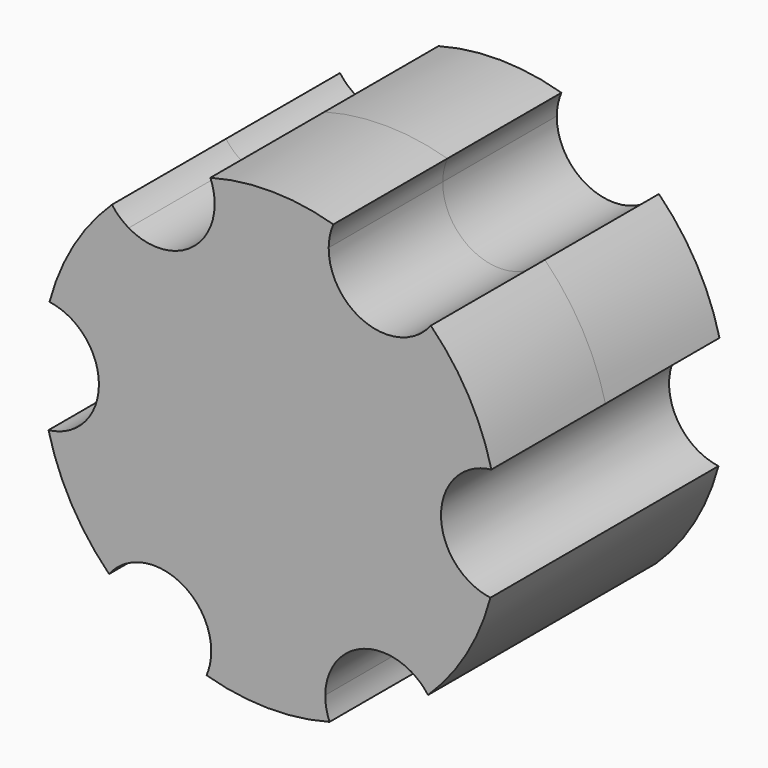
from build123d import *

# Parameters (mm, degrees)
F1_DEPTH = 15.875


with BuildPart() as f1:
    # F0 (on Front) → F1 (new body, symmetric)
    with BuildSketch(Plane.XZ):
        with BuildLine():
            ThreePointArc((24.5505380609, -6.5139144085), (23.3224016368, -6.2216985677), (22.1763423965, -5.6923051493))
            Line((22.1763423965, -5.6923051493), (15.7309476491, -16.6351972053))
            ThreePointArc((15.7309476491, -16.6351972053), (16.7496327839, -17.3808444208), (17.6006812342, -18.313274423))
            ThreePointArc((17.6006812342, -18.313274423), (21.8857841121, -12.8907894947), (24.5505380609, -6.5139144085))
        make_face()
        with BuildLine():
            ThreePointArc((6.6340536746, -24.5183468416), (6.273051804, -23.3086415786), (6.1584903329, -22.051428453))
            Line((6.1584903329, -22.051428453), (-6.5410295522, -21.9409988924))
            ThreePointArc((-6.5410295522, -21.9409988924), (-6.6774364157, -23.1960297053), (-7.0594202598, -24.3992742842))
            ThreePointArc((-7.0594202598, -24.3992742842), (-0.2208591212, -25.3990397702), (6.6340536746, -24.5183468416))
        make_face()
        with BuildLine():
            ThreePointArc((-24.6601014939, -6.0859998612), (-22.1066432333, -12.5082502755), (-17.9164843863, -18.004432433))
            ThreePointArc((-17.9164843863, -18.004432433), (-17.0493498328, -17.0869430109), (-16.0178520636, -16.3591233038))
            Line((-16.0178520636, -16.3591233038), (-22.2719772013, -5.3058016871))
            ThreePointArc((-22.2719772013, -5.3058016871), (-23.4270691996, -5.8151852846), (-24.6601014939, -6.0859998612))
        make_face()
        with BuildLine():
            Line((-22.1763423965, 5.6923051493), (-15.7309476491, 16.6351972053))
            ThreePointArc((-15.7309476491, 16.6351972053), (-16.7496327839, 17.3808444208), (-17.6006812342, 18.313274423))
            ThreePointArc((-17.6006812342, 18.313274423), (-21.8857841121, 12.8907894947), (-24.5505380609, 6.5139144085))
            ThreePointArc((-24.5505380609, 6.5139144085), (-23.3224016368, 6.2216985677), (-22.1763423965, 5.6923051493))
        make_face()
        with BuildLine():
            Line((-6.1584903329, 22.051428453), (6.5410295522, 21.9409988924))
            ThreePointArc((6.5410295522, 21.9409988924), (6.6774364157, 23.1960297053), (7.0594202598, 24.3992742842))
            ThreePointArc((7.0594202598, 24.3992742842), (0.2208591212, 25.3990397702), (-6.6340536746, 24.5183468416))
            ThreePointArc((-6.6340536746, 24.5183468416), (-6.2783366157, 23.3357387512), (-6.1582502755, 22.1066432333))
            ThreePointArc((-6.1582502755, 22.1066432333), (-6.1583102901, 22.0790355823), (-6.1584903329, 22.051428453))
        make_face()
        with BuildLine():
            Line((16.0178520636, 16.3591233038), (22.2719772013, 5.3058016871))
            ThreePointArc((22.2719772013, 5.3058016871), (23.4270691996, 5.8151852846), (24.6601014939, 6.0859998612))
            ThreePointArc((24.6601014939, 6.0859998612), (22.1066432333, 12.5082502755), (17.9164843863, 18.004432433))
            ThreePointArc((17.9164843863, 18.004432433), (17.0493498328, 17.0869430109), (16.0178520636, 16.3591233038))
        make_face()
        with BuildLine():
            Line((15.7309476491, -16.6351972053), (22.1763423965, -5.6923051493))
            ThreePointArc((22.1763423965, -5.6923051493), (19.0492798277, -0.1656443409), (22.2719772013, 5.3058016871))
            Line((22.2719772013, 5.3058016871), (16.0178520636, 16.3591233038))
            ThreePointArc((16.0178520636, 16.3591233038), (9.6680921211, 16.4143380841), (6.5410295522, 21.9409988924))
            Line((6.5410295522, 21.9409988924), (-6.1584903329, 22.051428453))
            ThreePointArc((-6.1584903329, 22.051428453), (-9.3811877066, 16.579982425), (-15.7309476491, 16.6351972053))
            Line((-15.7309476491, 16.6351972053), (-22.1763423965, 5.6923051493))
            ThreePointArc((-22.1763423965, 5.6923051493), (-19.8860266048, 3.3719201867), (-19.0490397702, 0.2208591212))
            ThreePointArc((-19.0490397702, 0.2208591212), (-19.9136342559, -2.9780197986), (-22.2719772013, -5.3058016871))
            Line((-22.2719772013, -5.3058016871), (-16.0178520636, -16.3591233038))
            ThreePointArc((-16.0178520636, -16.3591233038), (-9.6919105749, -16.4003785978), (-6.5407894947, -21.8857841121))
            ThreePointArc((-6.5407894947, -21.8857841121), (-6.5408495094, -21.9133917632), (-6.5410295522, -21.9409988924))
            Line((-6.5410295522, -21.9409988924), (6.1584903329, -22.051428453))
            ThreePointArc((6.1584903329, -22.051428453), (9.3811877066, -16.579982425), (15.7309476491, -16.6351972053))
        make_face()
    extrude(amount=F1_DEPTH, both=True)


solid = f1.part
